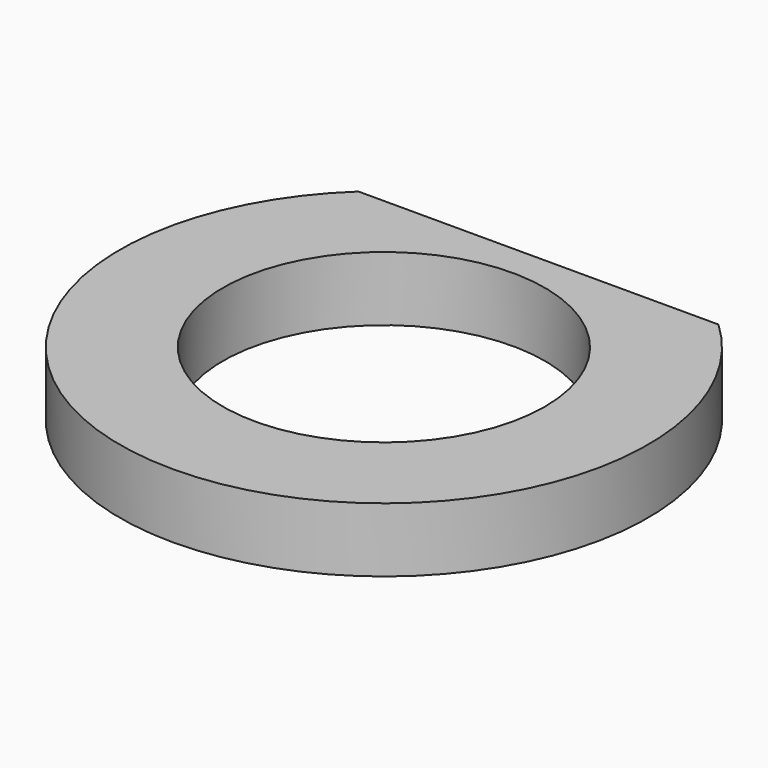
from build123d import *

# Parameters (mm, degrees)
SKETCH_R  = 12.5
PAD_DEPTH = 5


with BuildPart() as part:
    # Sketch → Pad (new body)
    with BuildSketch(Plane.XY):
        with BuildLine():
            ThreePointArc((-13.973189, 15), (0, -20.5), (13.973189, 15))
            Line((-13.973189, 15), (13.973189, 15))
        make_face()
        Circle(SKETCH_R, mode=Mode.SUBTRACT)
    extrude(amount=PAD_DEPTH)


solid = part.part
